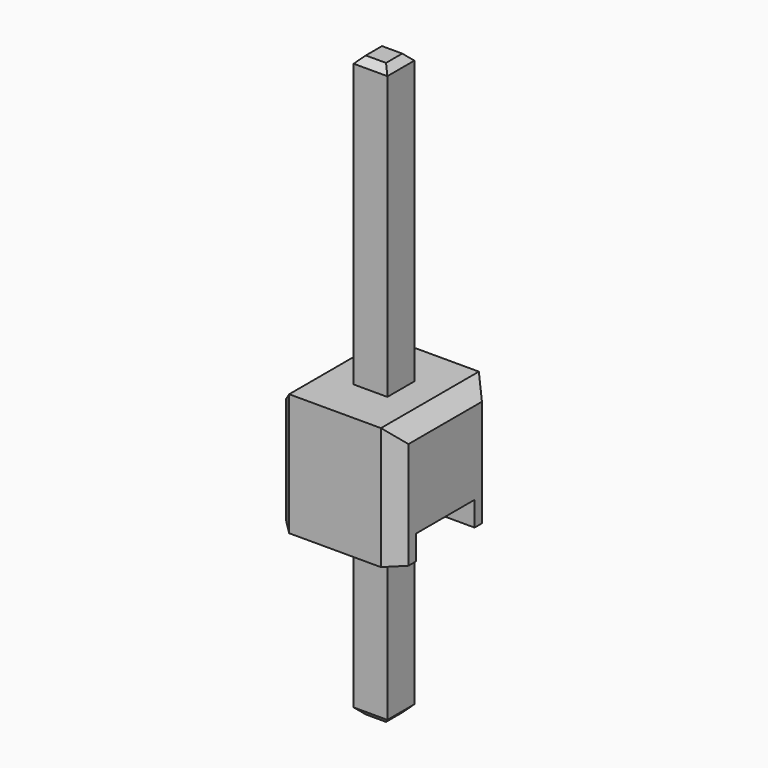
from build123d import *

# Parameters (mm, degrees)
F4_W     = 2.54
F4_H     = 2.54
F4_W_2   = 0.7
F4_H_2   = 0.7
F5_DEPTH = 2.54
F6_DEPTH = 8.54
F7_DEPTH = 3.5
F8_W     = 1.524
F8_H     = 0.508
F9_DEPTH = 25
F10_SIZE = 0.3175
F11_SIZE = 0.14


with BuildPart() as f5:
    # F4 (on Top) → F5 (new body)
    with BuildSketch(Plane.XY):
        Rectangle(F4_W, F4_H)
        Rectangle(F4_W_2, F4_H_2, mode=Mode.SUBTRACT)
        Rectangle(F4_W_2, F4_H_2)
    extrude(amount=F5_DEPTH)

    # F8 (on face) → F9 (cut)
    with BuildSketch(Plane(origin=(-1.27, 0, 0), x_dir=(0, -1, 0), z_dir=(-1, 0, 0))):
        with Locations((0, 0.254)):
            Rectangle(F8_W, F8_H)
    extrude(amount=-F9_DEPTH, mode=Mode.SUBTRACT)

    # F10
    f10_edges = [f5.edges().sort_by_distance(p)[0] for p in [
        (-1.27, -1.27, 1.27),
        (1.27, -1.27, 1.27),
        (-1.27, 1.27, 1.27),
        (1.27, 1.27, 1.27),
        (1.27, 0, 2.54),
        (-1.27, 0, 2.54),
    ]]
    chamfer(f10_edges, length=F10_SIZE)


with BuildPart() as f6:
    # F4 (on Top) → F6 (new body)
    with BuildSketch(Plane.XY):
        Rectangle(F4_W_2, F4_H_2)
    extrude(amount=F6_DEPTH)

    # F4 (on Top) → F7 (join)
    with BuildSketch(Plane.XY):
        Rectangle(F4_W_2, F4_H_2)
    extrude(amount=-F7_DEPTH)

    # F11
    f11_edges = [f6.edges().sort_by_distance(p)[0] for p in [
        (-0.35, 0, 8.54),
        (0, 0.35, 8.54),
        (0, -0.35, 8.54),
        (0.35, 0, 8.54),
        (0, 0.35, -3.5),
        (-0.35, 0, -3.5),
        (0, -0.35, -3.5),
        (0.35, 0, -3.5),
    ]]
    chamfer(f11_edges, length=F11_SIZE)


solid = Compound([f5.part, f6.part])
